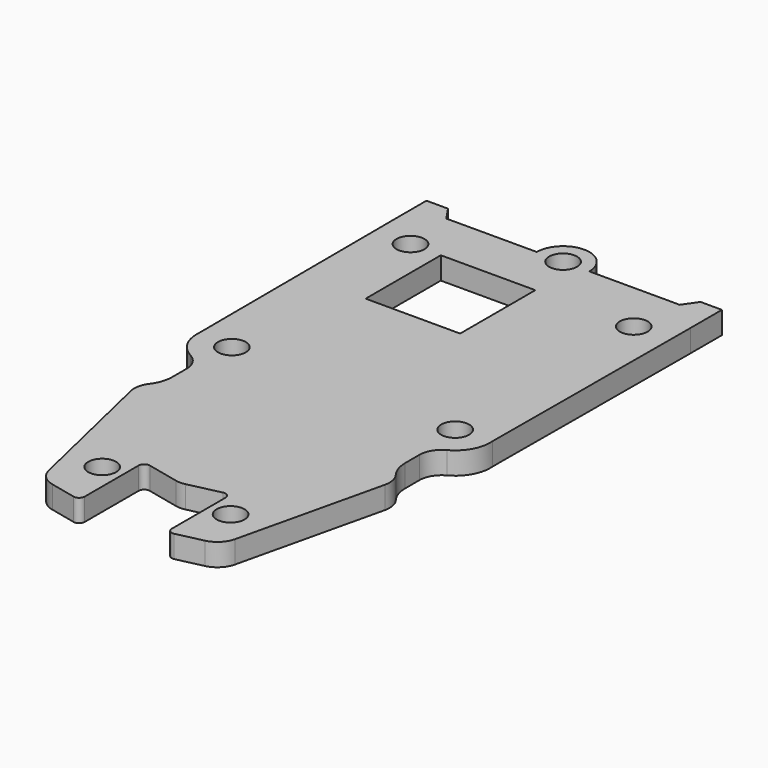
from build123d import *

# Parameters (mm, degrees)
F0_R     = 1.25
F0_W     = 8.466002
F0_H     = 8.417533
F1_DEPTH = 2


with BuildPart() as f1:
    # F0 (on Top) → F1 (new body)
    with BuildSketch(Plane.XY):
        with BuildLine():
            Line((19.377316, 48.371452), (12.511831, 48.371452))
            Line((12.511831, 48.371452), (11.281675, 48.362336))
            Line((11.281675, 48.362336), (10.424009, 49.616981))
            Line((10.424009, 49.616981), (8.498245, 49.616981))
            Line((8.498245, 49.616981), (8.498245, 46.11221))
            Line((8.498245, 46.11221), (8.592918, 24.0495))
            ThreePointArc((8.592918, 24.0495), (8.964934, 22.283302), (10.245487, 21.011281))
            ThreePointArc((10.245487, 21.011281), (11.017389, 20.275696), (11.301618, 19.248014))
            Line((11.301618, 19.248014), (11.301618, 17.655057))
            ThreePointArc((11.301618, 17.655057), (11.147379, 16.705509), (10.700523, 15.853599))
            ThreePointArc((10.700523, 15.853599), (10.34255, 15.063964), (10.352377, 14.197032))
            Line((10.352377, 14.197032), (13.388781, 1.218066))
            ThreePointArc((13.388781, 1.218066), (13.926743, 0.254704), (14.893698, -0.276774))
            Line((14.893698, -0.276774), (17.223874, -0.805427))
            ThreePointArc((17.223874, -0.805427), (17.646499, -0.708531), (17.834499, -0.317819))
            Line((17.834499, -0.317819), (17.834499, 5.715386))
            ThreePointArc((17.834499, 5.715386), (18.0225, 6.106098), (18.445124, 6.202995))
            Line((18.445124, 6.202995), (21.28958, 5.557665))
            ThreePointArc((21.28958, 5.557665), (21.732081, 5.5081), (22.174581, 5.557665))
            Line((22.174581, 5.557665), (25.019037, 6.202995))
            ThreePointArc((25.019037, 6.202995), (25.441662, 6.106098), (25.629662, 5.715386))
            Line((25.629662, 5.715386), (25.629662, -0.317819))
            ThreePointArc((25.629662, -0.317819), (25.817662, -0.708531), (26.240287, -0.805427))
            Line((26.240287, -0.805427), (28.570463, -0.276774))
            ThreePointArc((28.570463, -0.276774), (29.537418, 0.254704), (30.07538, 1.218066))
            Line((30.07538, 1.218066), (33.111785, 14.197032))
            ThreePointArc((33.111785, 14.197032), (33.121611, 15.063964), (32.763638, 15.853599))
            ThreePointArc((32.763638, 15.853599), (32.316782, 16.705509), (32.162543, 17.655057))
            Line((32.162543, 17.655057), (32.162543, 19.248014))
            ThreePointArc((32.162543, 19.248014), (32.446773, 20.275696), (33.218674, 21.011281))
            ThreePointArc((33.218674, 21.011281), (34.499227, 22.283302), (34.871243, 24.0495))
            Line((34.871243, 24.0495), (34.965916, 46.11221))
            Line((34.965916, 46.11221), (34.965916, 49.616981))
            Line((34.965916, 49.616981), (33.040153, 49.616981))
            Line((33.040153, 49.616981), (32.182486, 48.362336))
            Line((32.182486, 48.362336), (30.95233, 48.371452))
            Line((30.95233, 48.371452), (24.086845, 48.371452))
            ThreePointArc((24.086845, 48.371452), (21.732081, 50.726217), (19.377316, 48.371452))
        make_face()
        with Locations((15.982081, 3.955105)):
            Circle(F0_R, mode=Mode.SUBTRACT)
        with Locations((11.732081, 23.788427)):
            Circle(F0_R, mode=Mode.SUBTRACT)
        with Locations((27.482081, 3.955105)):
            Circle(F0_R, mode=Mode.SUBTRACT)
        with Locations((31.732081, 23.788427)):
            Circle(F0_R, mode=Mode.SUBTRACT)
        with Locations((11.732081, 43.788427)):
            Circle(F0_R, mode=Mode.SUBTRACT)
        with Locations((18.679423, 39.579661)):
            Rectangle(F0_W, F0_H, mode=Mode.SUBTRACT)
        with Locations((21.732081, 48.371452)):
            Circle(F0_R, mode=Mode.SUBTRACT)
        with Locations((31.732081, 43.788427)):
            Circle(F0_R, mode=Mode.SUBTRACT)
    extrude(amount=F1_DEPTH)


solid = f1.part
